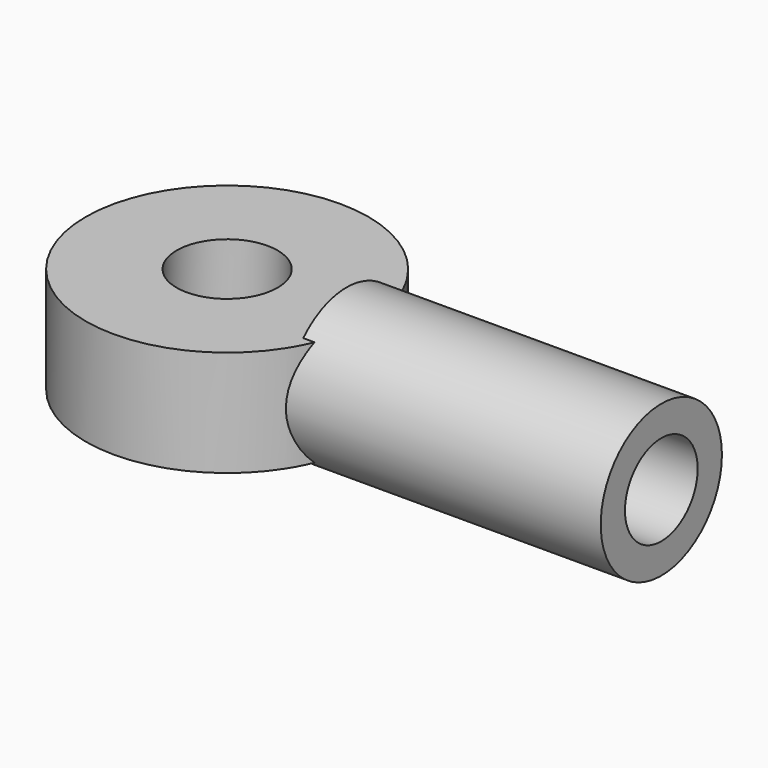
from build123d import *

# Parameters (mm, degrees)
F0_R     = 5
F1_DEPTH = 5.25
F4_D     = 9
F4_DEPTH = 23
F4_TIP   = 2.7038727856


with BuildPart() as f1:
    # F0 (on Top) → F1 (new body, symmetric)
    with BuildSketch(Plane.XY):
        with BuildLine():
            ThreePointArc((11.8215904175, -7.5), (13.4443717935, -3.9049797794), (14, 0))
            ThreePointArc((14, 0), (13.4443717935, 3.9049797794), (11.8215904175, 7.5))
            ThreePointArc((11.8215904175, 7.5), (-14, 0), (11.8215904175, -7.5))
        make_face()
        Circle(F0_R, mode=Mode.SUBTRACT)
    extrude(amount=F1_DEPTH, both=True)

    # F0 (on Top) → F2 (revolve)
    with BuildSketch(Plane.XY):
        with BuildLine():
            ThreePointArc((11.8215904175, 7.5), (13.4443717935, 3.9049797794), (14, 0))
            Line((14, 0), (43, 0))
            Line((43, 0), (43, 7.5))
            Line((43, 7.5), (11.8215904175, 7.5))
        make_face()
    revolve(axis=Axis((18.6075619422, 0, 0), (-1, 0, 0)))

    # F4
    with Locations(Plane.YZ.offset(43)):
        with Locations((0, 0)):
            Hole(F4_D / 2, depth=F4_DEPTH)
            with Locations((0, 0, -(F4_DEPTH + F4_TIP / 2))):  # 118° drill point
                Cone(0, F4_D / 2, F4_TIP, mode=Mode.SUBTRACT)


solid = f1.part
